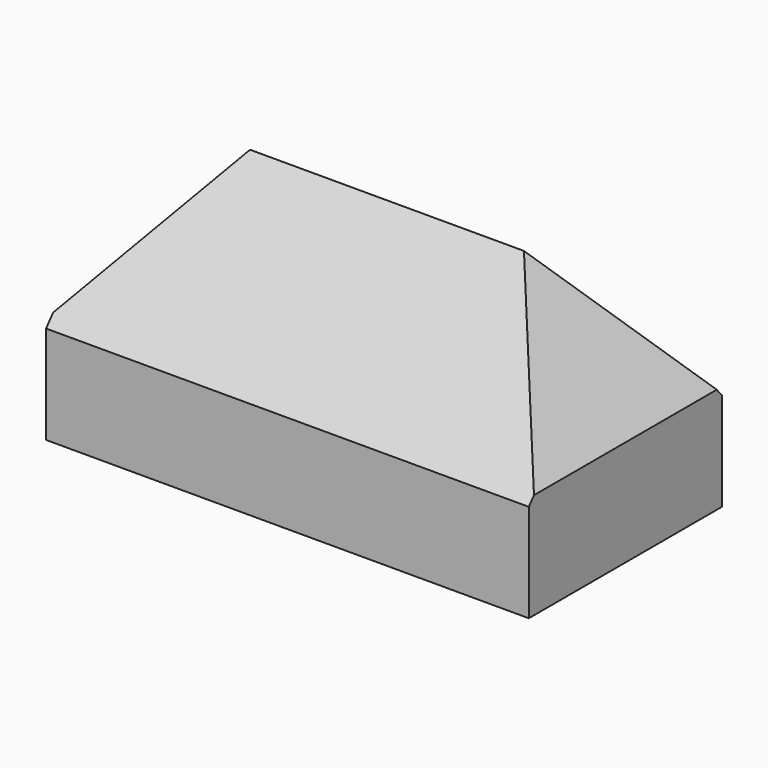
from build123d import *

# Parameters (mm, degrees)
F0_W     = 101.6
F0_H     = 50.8
F1_DEPTH = 50.8
F3_DEPTH = 115.824
F5_DEPTH = 33.528
F6_DEPTH = 41.402


with BuildPart() as f1:
    # F0 (on Top) → F1 (new body)
    with BuildSketch(Plane.XY):
        with Locations((6.0652717948, 1.7450194966)):
            Rectangle(F0_W, F0_H)
    extrude(amount=F1_DEPTH)

    # F2 (on face) → F3 (cut)
    with BuildSketch(Plane(origin=(-44.7347282052, 0, 0), x_dir=(0, -1, 0), z_dir=(-1, 0, 0))):
        Polygon((-27.1450194966, 20.6477418542), (-1.7450194966, 50.8), (-27.1450194966, 50.8), align=None)
        Polygon((23.6549805034, 50.8), (-1.7450194966, 50.8), (23.6549805034, 20.6477418542), align=None)
    extrude(amount=-F3_DEPTH, mode=Mode.SUBTRACT)

    # F4 (on Front) → F5 (cut)
    with BuildSketch(Plane.XZ):
        Polygon((-21.6801278293, 51.361259073), (-44.908836484, 51.361259073), (-45.6831306219, 21.680129692), align=None)
        Polygon((57.2974830866, 51.361259073), (35.1011604071, 51.361259073), (57.2974830866, 21.680129692), align=None)
    extrude(amount=-F5_DEPTH, mode=Mode.SUBTRACT)

    # F6 (cut): faces of the model
    f6_faces = [f1.faces().sort_by_distance(p)[0] for p in [
        (50.2668517161, 0, 39.9050242048),
        (-37.7595636519, 0, 40.1032904014),
    ]]
    extrude(f6_faces, amount=-F6_DEPTH, mode=Mode.SUBTRACT)


solid = f1.part
